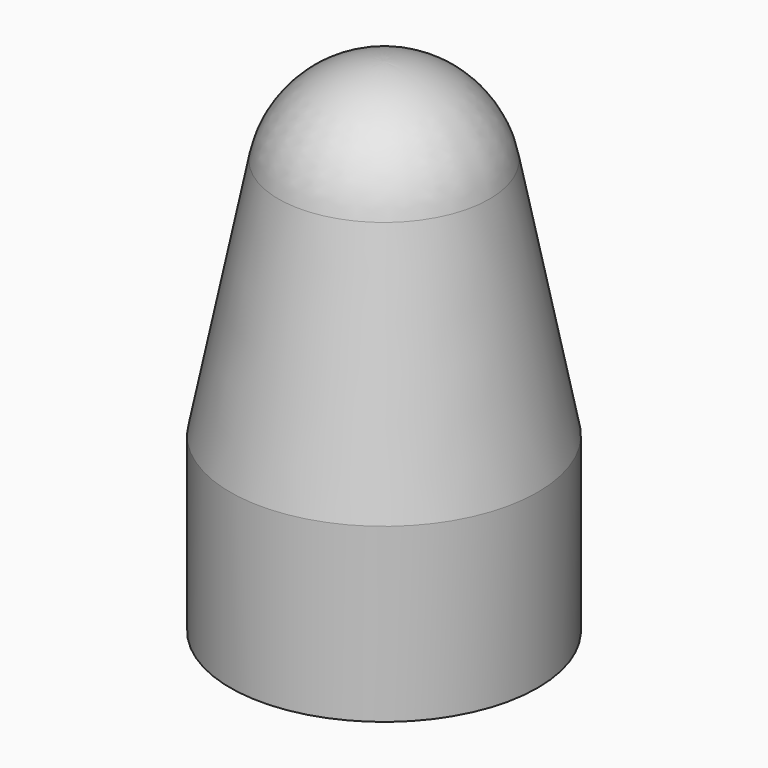
from build123d import *

# Parameters (mm, degrees)
F2_R     = 25.4
F3_DEPTH = 12.7


with BuildPart() as f1:
    # F0 (on Front) → F1 (revolve)
    with BuildSketch(Plane.XZ):
        with BuildLine():
            Line((0, -17.78), (31.75, -17.78))
            Line((31.75, -17.78), (31.75, 17.78))
            Line((31.75, 17.78), (21.798343, 67.833919))
            ThreePointArc((21.798343, 67.833919), (14.100164, 80.679522), (0, 85.725))
            Line((0, 85.725), (0, 79.375))
            ThreePointArc((0, 79.375), (10.071546, 75.771087), (15.570245, 66.595656))
            Line((15.570245, 66.595656), (25.4, 17.154868))
            Line((25.4, 17.154868), (25.4, -11.43))
            Line((25.4, -11.43), (0, -11.43))
            Line((0, -11.43), (0, -17.78))
        make_face()
    revolve(axis=Axis((0, 0, -14.605), (0, 0, 1)))

    # F2 (on face) → F3 (cut)
    with BuildSketch(Plane(origin=(0, 0, -17.78), x_dir=(1, 0, 0), z_dir=(0, 0, -1))):
        Circle(F2_R)
    extrude(amount=-F3_DEPTH, mode=Mode.SUBTRACT)


solid = f1.part
